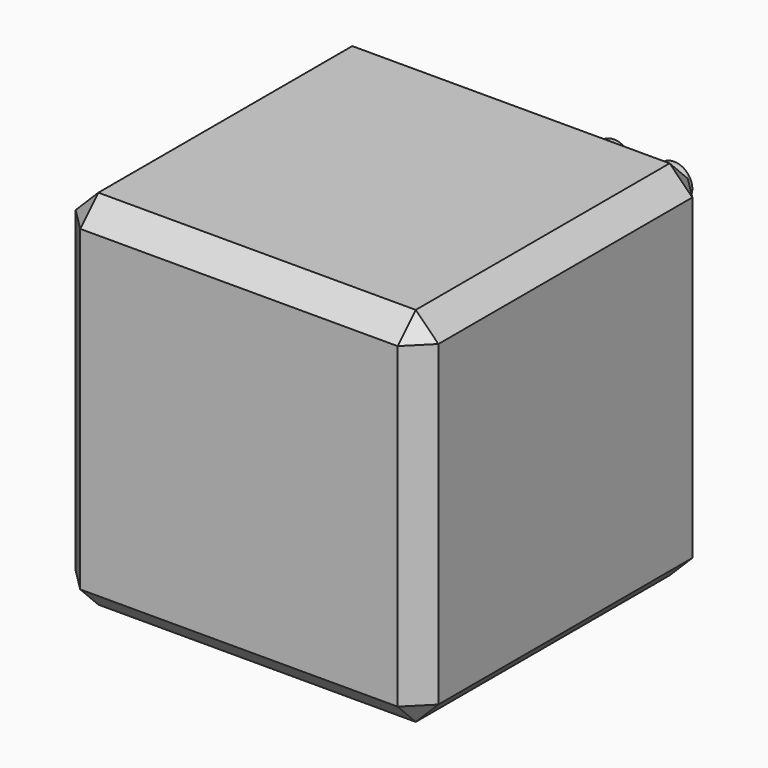
from build123d import *

# Parameters (mm, degrees)
F0_W     = 80
F0_H     = 80
F1_DEPTH = 80
F2_R     = 4
F3_DEPTH = 5
F5_DEPTH = 2
F6_SIZE  = 5


with BuildPart() as f1:
    # F0 (on Top) → F1 (new body)
    with BuildSketch(Plane.XY):
        with Locations((-14.714826, 3.9e-05)):
            Rectangle(F0_W, F0_H)
    extrude(amount=F1_DEPTH)

    # F2 (on face) → F3 (join)
    with BuildSketch(Plane(origin=(0, 40.000039, 0), x_dir=(-1, 0, 0), z_dir=(0, 1, 0))):
        with Locations((0, 70)):
            Circle(F2_R)
        with Locations((-13.285174, 70)):
            Circle(F2_R)
    extrude(amount=F3_DEPTH)

    # F4 (on face) → F5 (cut)
    with BuildSketch(Plane(origin=(0, 40.000039, 0), x_dir=(-1, 0, 0), z_dir=(0, 1, 0))):
        with BuildLine():
            Line((39.714826, 50), (-10.285174, 50))
            Line((-10.285174, 50), (-10.285174, 30))
            ThreePointArc((-10.285174, 30), (-7.356242, 22.928932), (-0.285174, 20))
            Line((-0.285174, 20), (29.714826, 20))
            ThreePointArc((29.714826, 20), (36.785894, 22.928932), (39.714826, 30))
            Line((39.714826, 30), (39.714826, 50))
        make_face()
        with BuildLine():
            Line((-9.285174, 30), (-9.285174, 49))
            Line((-9.285174, 49), (38.714826, 49))
            Line((38.714826, 49), (38.714826, 30))
            ThreePointArc((38.714826, 30), (36.078787, 23.636039), (29.714826, 21))
            Line((29.714826, 21), (-0.285174, 21))
            ThreePointArc((-0.285174, 21), (-6.649135, 23.636039), (-9.285174, 30))
        make_face(mode=Mode.SUBTRACT)
    extrude(amount=-F5_DEPTH, mode=Mode.SUBTRACT)

    # F6
    f6_edges = [f1.edges().sort_by_distance(p)[0] for p in [
        (-14.714826, -39.999961, 0),
        (25.285174, 3.9e-05, 0),
        (25.285174, -39.999961, 40),
        (25.285174, 40.000039, 40),
        (25.285174, 3.9e-05, 80),
        (-54.714826, 40.000039, 40),
        (-14.714826, 40.000039, 0),
        (-54.714826, 3.9e-05, 0),
        (-54.714826, 3.9e-05, 80),
        (-14.714826, 40.000039, 80),
        (-14.714826, -39.999961, 80),
        (-54.714826, -39.999961, 40),
    ]]
    chamfer(f6_edges, length=F6_SIZE)


solid = f1.part
